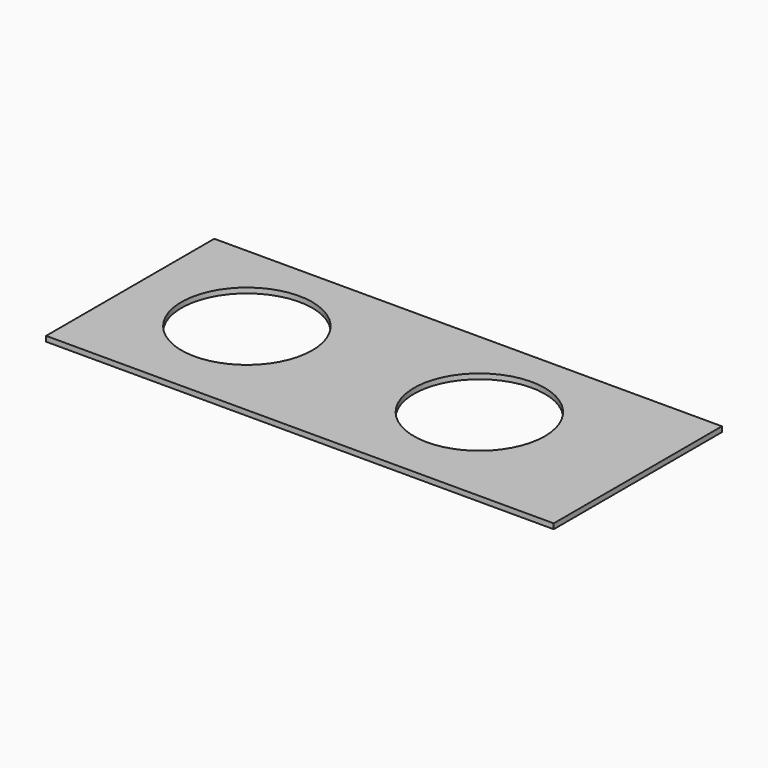
from build123d import *

# Parameters (mm, degrees)
F1_W     = 310.345411
F1_H     = 128.536235
F1_R     = 40
F3_DEPTH = 3.175
F4_R     = 40
F5_DEPTH = 25.4


with BuildPart() as f3:
    # F1 (on face) → F3 (new body)
    with BuildSketch(Plane.XY):
        with Locations((6.08109, 46.009373)):
            Rectangle(F1_W, F1_H)
        with Locations((-80.468008, 49.394639)):
            Circle(F1_R, mode=Mode.SUBTRACT)
    extrude(amount=F3_DEPTH)

    # F4 (on face) → F5 (cut)
    with BuildSketch(Plane.XY):
        with Locations((61.672111, 49.394639)):
            Circle(F4_R)
    extrude(amount=F5_DEPTH, mode=Mode.SUBTRACT)


solid = f3.part
